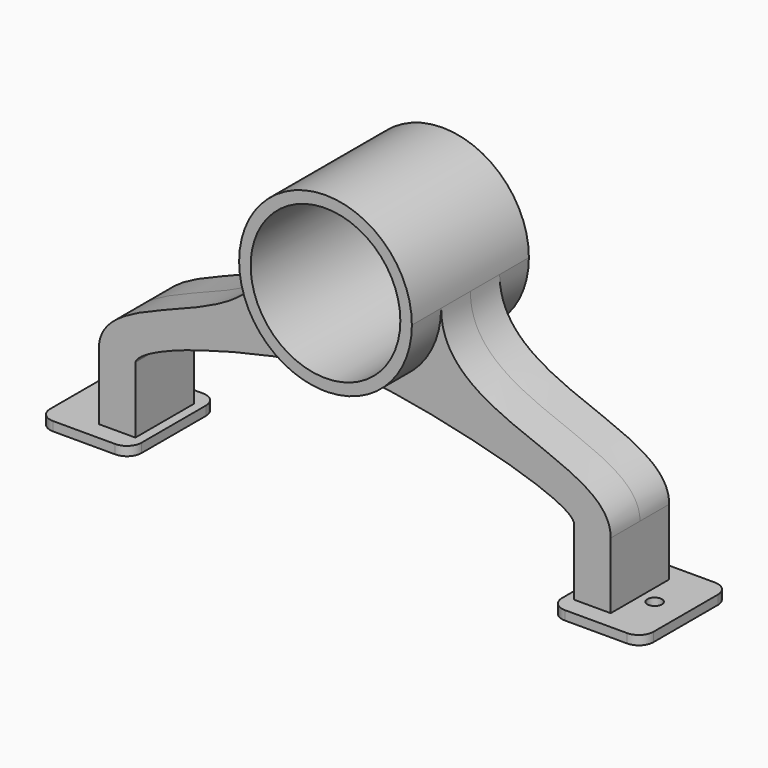
from build123d import *

# Parameters (mm, degrees)
F0_R     = 26
F1_DEPTH = 25.4
F2_DEPTH = 12.7
F3_W     = 31.75
F3_H     = 38.1
F4_DEPTH = 3.175
F5_R     = 5.08
F6_R     = 5.08
F7_R     = 2.5
F8_DEPTH = 25.4


with BuildPart() as f1:
    # F0 (on Front) → F1 (new body, symmetric)
    with BuildSketch(Plane.XZ):
        with BuildLine():
            ThreePointArc((1.10512, 21.131636), (21.600389, 30.292455), (30, 51.111274))
            ThreePointArc((30, 51.111274), (0, 81.111274), (-30, 51.111274))
            ThreePointArc((-30, 51.111274), (-21.605128, 30.297373), (-1.11877, 21.132142))
            add(Edge.make_bspline(
                [(-1.11877, 21.132142), (-0.729546, 21.131124), (-0.356346, 21.124225), (0, 21.111274)],
                knots=[77.429523, 77.429523, 77.429523, 77.429523, 79.070386, 79.070386, 79.070386, 79.070386], degree=3))
            add(Edge.make_bspline(
                [(1.10512, 21.131636), (0.702299, 21.134485), (0.333214, 21.127816), (0, 21.111274)],
                knots=[76.974546, 76.974546, 76.974546, 76.974546, 79.070386, 79.070386, 79.070386, 79.070386], degree=3))
        make_face()
        with Locations((0, 51.111274)):
            Circle(F0_R, mode=Mode.SUBTRACT)
    extrude(amount=F1_DEPTH, both=True)

    # F0 (on Front) → F2 (join, symmetric)
    with BuildSketch(Plane.XZ):
        with BuildLine():
            ThreePointArc((-1.11877, 21.132142), (-21.605128, 30.297373), (-30, 51.111274))
            add(Edge.make_bspline(
                [(-30, 51.111274), (-30, 18.52078), (-88.9, 22.936654), (-88.9, 0)],
                knots=[0, 0, 0, 0, 77.984436, 77.984436, 77.984436, 77.984436], degree=3))
            Line((-88.9, 0), (-88.9, -26.166598))
            Line((-88.9, -26.166598), (-76.2, -26.166598))
            Line((-76.2, -26.166598), (-76.2, 0))
            add(Edge.make_bspline(
                [(-76.2, 0), (-73.534535, 8.132415), (-19.485583, 21.180166), (-1.11877, 21.132142)],
                knots=[0, 0, 0, 0, 77.429523, 77.429523, 77.429523, 77.429523], degree=3))
        make_face()
        with BuildLine():
            add(Edge.make_bspline(
                [(30, 51.111274), (30, 18.52078), (88.9, 22.936654), (88.9, 0)],
                knots=[0, 0, 0, 0, 77.984436, 77.984436, 77.984436, 77.984436], degree=3))
            ThreePointArc((30, 51.111274), (21.600389, 30.292455), (1.10512, 21.131636))
            add(Edge.make_bspline(
                [(76.2, 0), (76.2, 8.084629), (15.899645, 21.026998), (1.10512, 21.131636)],
                knots=[0, 0, 0, 0, 76.974546, 76.974546, 76.974546, 76.974546], degree=3))
            Line((76.2, 0), (76.2, -26.166598))
            Line((76.2, -26.166598), (88.9, -26.166598))
            Line((88.9, -26.166598), (88.9, 0))
        make_face()
    extrude(amount=F2_DEPTH, both=True)

    # F3 (on face) → F4 (join)
    with BuildSketch(Plane(origin=(0, 0, -26.166598), x_dir=(1, 0, 0), z_dir=(0, 0, -1))):
        with Locations((-88.9, 0)):
            Rectangle(F3_W, F3_H)
        with Locations((88.9, 0)):
            Rectangle(F3_W, F3_H)
    extrude(amount=-F4_DEPTH)

    # F5
    f5_edges = [f1.edges().sort_by_distance(p)[0] for p in [
        (-104.775, -19.05, -24.579098),
        (-73.025, -19.05, -24.579098),
        (-104.775, 19.05, -24.579098),
        (-73.025, 19.05, -24.579098),
    ]]
    fillet(f5_edges, radius=F5_R)

    # F6
    f6_edges = [f1.edges().sort_by_distance(p)[0] for p in [
        (104.775, -19.05, -24.579098),
        (73.025, -19.05, -24.579098),
        (104.775, 19.05, -24.579098),
        (73.025, 19.05, -24.579098),
    ]]
    fillet(f6_edges, radius=F6_R)

    # F7 (on face) → F8 (cut)
    with BuildSketch(Plane(origin=(0, 0, -26.166598), x_dir=(1, 0, 0), z_dir=(0, 0, -1))):
        with Locations((-94.0308, 0)):
            Circle(F7_R)
        with Locations((94.017617, 0)):
            Circle(F7_R)
    extrude(amount=-F8_DEPTH, mode=Mode.SUBTRACT)


solid = f1.part
